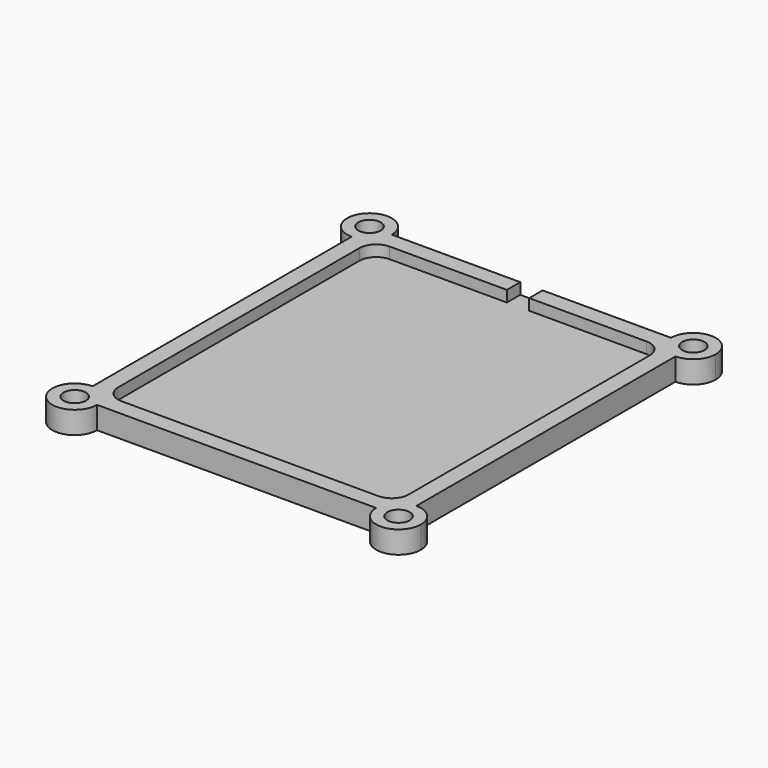
from build123d import *

# Parameters (mm, degrees)
F2_DEPTH = 4
F3_W     = 4
F3_H     = 2
F4_DEPTH = 4
F5_W     = 52
F5_H     = 60
F6_DEPTH = 2
F7_R     = 2
F8_DEPTH = 4
F9_R     = 3


with BuildPart() as f2:
    # F1 (on Top) → F2 (new body)
    with BuildSketch(Plane.XY):
        with BuildLine():
            ThreePointArc((-29, 29), (-26.1715728753, 30.1715728753), (-25, 33))
            Line((-25, 33), (-29, 33))
            Line((-29, 33), (-29, 29))
        make_face()
        with BuildLine():
            Line((-29, 33), (-25, 33))
            ThreePointArc((-25, 33), (-31.8284271247, 35.8284271247), (-29, 29))
            Line((-29, 29), (-29, 33))
        make_face()
        with BuildLine():
            Line((25, 33), (-25, 33))
            ThreePointArc((-25, 33), (-26.1715728753, 30.1715728753), (-29, 29))
            Line((-29, 29), (-29, -29))
            ThreePointArc((-29, -29), (-26.1715728753, -30.1715728753), (-25, -33))
            Line((-25, -33), (25, -33))
            ThreePointArc((25, -33), (26.1715728753, -30.1715728753), (29, -29))
            Line((29, -29), (29, 29))
            ThreePointArc((29, 29), (26.1715728753, 30.1715728753), (25, 33))
        make_face()
        with BuildLine():
            ThreePointArc((33, 33), (29, 37), (25, 33))
            Line((25, 33), (29, 33))
            Line((29, 33), (29, 29))
            ThreePointArc((29, 29), (31.8284271247, 30.1715728753), (33, 33))
        make_face()
        with BuildLine():
            Line((29, 33), (25, 33))
            ThreePointArc((25, 33), (26.1715728753, 30.1715728753), (29, 29))
            Line((29, 29), (29, 33))
        make_face()
        with BuildLine():
            ThreePointArc((-25, -33), (-26.1715728753, -30.1715728753), (-29, -29))
            Line((-29, -29), (-29, -33))
            Line((-29, -33), (-25, -33))
        make_face()
        with BuildLine():
            Line((-29, -33), (-29, -29))
            ThreePointArc((-29, -29), (-31.8284271247, -35.8284271247), (-25, -33))
            Line((-25, -33), (-29, -33))
        make_face()
        with BuildLine():
            ThreePointArc((33, -33), (31.8284271247, -30.1715728753), (29, -29))
            Line((29, -29), (29, -33))
            Line((29, -33), (25, -33))
            ThreePointArc((25, -33), (29, -37), (33, -33))
        make_face()
        with BuildLine():
            Line((29, -33), (29, -29))
            ThreePointArc((29, -29), (26.1715728753, -30.1715728753), (25, -33))
            Line((25, -33), (29, -33))
        make_face()
    extrude(amount=F2_DEPTH)

    # F3 (on face) → F4 (cut)
    with BuildSketch(Plane(origin=(0, 33, 0), x_dir=(-1, 0, 0), z_dir=(0, 1, 0))):
        with Locations((0, 3)):
            Rectangle(F3_W, F3_H)
    extrude(amount=-F4_DEPTH, mode=Mode.SUBTRACT)

    # F5 (on face) → F6 (cut)
    with BuildSketch(Plane.XY.offset(4)):
        Rectangle(F5_W, F5_H)
    extrude(amount=-F6_DEPTH, mode=Mode.SUBTRACT)

    # F7 (on Top) → F8 (cut)
    with BuildSketch(Plane.XY):
        with Locations((29, 33)):
            Circle(F7_R)
        with Locations((-29, 33)):
            Circle(F7_R)
        with Locations((29, -33)):
            Circle(F7_R)
        with Locations((-29, -33)):
            Circle(F7_R)
    extrude(amount=F8_DEPTH, mode=Mode.SUBTRACT)

    # F9
    f9_edges = [f2.edges().sort_by_distance(p)[0] for p in [
        (26, -30, 3),
        (-26, -30, 3),
        (-26, 30, 3),
        (26, 30, 3),
    ]]
    fillet(f9_edges, radius=F9_R)


solid = f2.part
